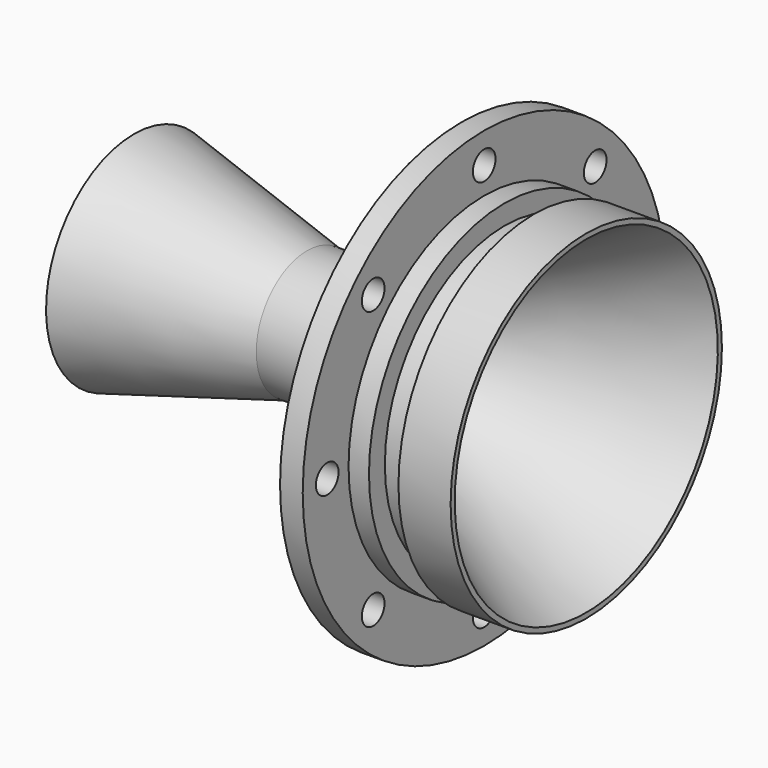
from build123d import *

# Parameters (mm, degrees)
F2_R = 2.54
F5_W = 3.302
F5_H = 4.953003
F8_D = 3.175


with BuildPart() as f1:
    # F0 (on Front) → F1 (revolve)
    with BuildSketch(Plane.XZ):
        Polygon((-23.976779, 4.572), (0, 18.415), (0, 25.4), (-13.97, 25.4), (-13.97, 13.282356), (-24.65737, 7.112), (-31.262382, 7.112), (-50.646779, 12.306034), (-50.646779, 9.676432), (-31.596779, 4.572), align=None)
    revolve(axis=Axis((-17.938589, 0, 0), (-1, 0, 0)))

    # F2
    f2_edges = [f1.edges().sort_by_distance(p)[0] for p in [
        (-23.976779, 0, -4.572),
    ]]
    fillet(f2_edges, radius=F2_R)

    # F3 (on Front) → F4 (revolve, cut)
    with BuildSketch(Plane.XZ):
        Polygon((-11.43, 18.9865), (10.714284, 18.9865), (9.031125, 27.501298), (-11.43, 27.501298), align=None)
    revolve(axis=Axis((6.990795, 0, 0), (1, 0, 0)), mode=Mode.SUBTRACT)

    # F5 (on Front) → F6 (revolve, cut)
    with BuildSketch(Plane.XZ):
        with Locations((-7.493, 19.240502)):
            Rectangle(F5_W, F5_H)
    revolve(axis=Axis((-24.65737, 0, 0), (-1, 0, 0)), mode=Mode.SUBTRACT)

    # F8 (through all)
    with Locations(Plane(origin=(-13.97, 0, 0), x_dir=(0, -1, 0), z_dir=(-1, 0, 0))):
        with Locations((0, 21.971), (15.535843, 15.535843), (21.971, 0), (15.535843, -15.535843), (0, -21.971), (-15.535843, -15.535843), (-21.971, 0), (-15.535843, 15.535843)):
            Hole(F8_D / 2)


solid = f1.part
